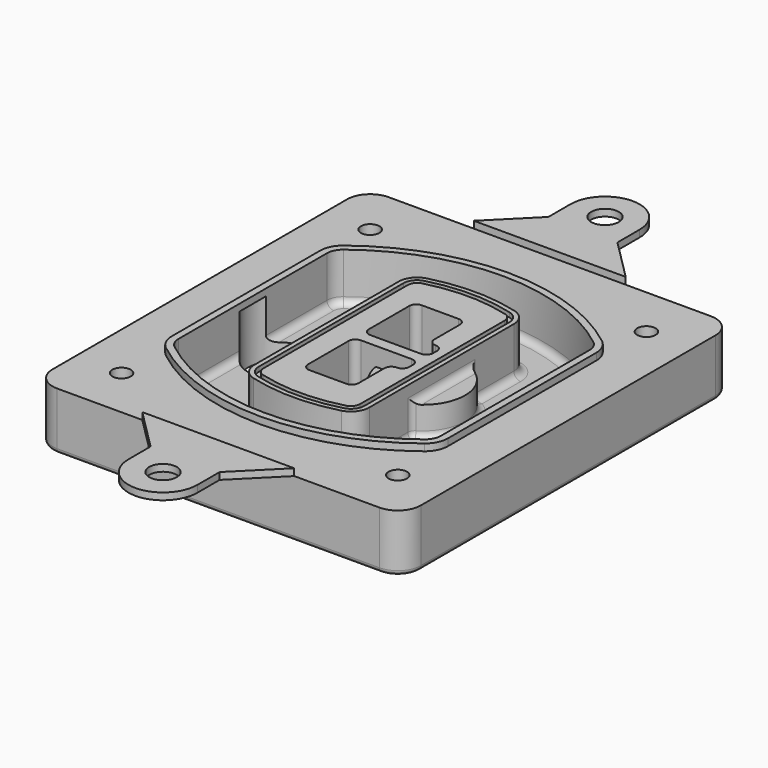
from build123d import *

# Parameters (mm, degrees)
F0_R      = 4
F1_DEPTH  = 25
F2_DEPTH  = 3
F3_DEPTH  = 18
F5_DEPTH  = 21
F6_DEPTH  = 2
F8_DEPTH  = 20
F9_DEPTH  = 16
F10_DEPTH = 25
F7_R      = 6
F7_R_2    = 4
F11_DEPTH = 6
F13_DEPTH = 9
F14_R     = 3
F15_R     = 2
F16_R     = 6
F17_DEPTH = 3


with BuildPart() as f1:
    # F0 (on Top) → F1 (new body)
    with BuildSketch(Plane.XY):
        with BuildLine():
            ThreePointArc((-80, -80), (-77.0710678119, -87.0710678119), (-70, -90))
            Line((-70, -90), (70, -90))
            ThreePointArc((70, -90), (77.0710678119, -87.0710678119), (80, -80))
            Line((80, -80), (80, 80))
            ThreePointArc((80, 80), (77.0710678119, 87.0710678119), (70, 90))
            Line((70, 90), (-70, 90))
            ThreePointArc((-70, 90), (-77.0710678119, 87.0710678119), (-80, 80))
            Line((-80, 80), (-80, -80))
        make_face()
        with Locations((-60, -67.5)):
            Circle(F0_R, mode=Mode.SUBTRACT)
        with Locations((60, -67.5)):
            Circle(F0_R, mode=Mode.SUBTRACT)
        with Locations((-60, 67.5)):
            Circle(F0_R, mode=Mode.SUBTRACT)
        with BuildLine():
            ThreePointArc((-64, 40.2934422872), (-62.5820384798, 46.4328484224), (-58.6153846154, 51.3286200352))
            ThreePointArc((-58.6153846154, 51.3286200352), (0, 71.5), (58.6153846154, 51.3286200352))
            ThreePointArc((58.6153846154, 51.3286200352), (62.5820384798, 46.4328484224), (64, 40.2934422872))
            Line((64, 40.2934422872), (64, -40.2934422872))
            ThreePointArc((64, -40.2934422872), (62.5820384798, -46.4328484224), (58.6153846154, -51.3286200352))
            ThreePointArc((58.6153846154, -51.3286200352), (0, -71.5), (-58.6153846154, -51.3286200352))
            ThreePointArc((-58.6153846154, -51.3286200352), (-62.5820384798, -46.4328484224), (-64, -40.2934422872))
            Line((-64, -40.2934422872), (-64, 40.2934422872))
        make_face(mode=Mode.SUBTRACT)
        with Locations((60, 67.5)):
            Circle(F0_R, mode=Mode.SUBTRACT)
        with BuildLine():
            ThreePointArc((58.6153846154, 51.3286200352), (0, 71.5), (-58.6153846154, 51.3286200352))
            ThreePointArc((-58.6153846154, 51.3286200352), (-62.5820384798, 46.4328484224), (-64, 40.2934422872))
            Line((-64, 40.2934422872), (-64, -40.2934422872))
            ThreePointArc((-64, -40.2934422872), (-62.5820384798, -46.4328484224), (-58.6153846154, -51.3286200352))
            ThreePointArc((-58.6153846154, -51.3286200352), (0, -71.5), (58.6153846154, -51.3286200352))
            ThreePointArc((58.6153846154, -51.3286200352), (62.5820384798, -46.4328484224), (64, -40.2934422872))
            Line((64, -40.2934422872), (64, 40.2934422872))
            ThreePointArc((64, 40.2934422872), (62.5820384798, 46.4328484224), (58.6153846154, 51.3286200352))
        make_face()
        with BuildLine():
            Line((-60, -40.2934422872), (-60, 40.2934422872))
            ThreePointArc((-60, 40.2934422872), (-58.9871703427, 44.6787323838), (-56.1538461538, 48.1757121072))
            ThreePointArc((-56.1538461538, 48.1757121072), (0, 67.5), (56.1538461538, 48.1757121072))
            ThreePointArc((56.1538461538, 48.1757121072), (58.9871703427, 44.6787323838), (60, 40.2934422872))
            Line((60, 40.2934422872), (60, -40.2934422872))
            ThreePointArc((60, -40.2934422872), (58.9871703427, -44.6787323838), (56.1538461538, -48.1757121072))
            ThreePointArc((56.1538461538, -48.1757121072), (0, -67.5), (-56.1538461538, -48.1757121072))
            ThreePointArc((-56.1538461538, -48.1757121072), (-58.9871703427, -44.6787323838), (-60, -40.2934422872))
        make_face(mode=Mode.SUBTRACT)
        with BuildLine():
            ThreePointArc((-56.1538461538, 48.1757121072), (-58.9871703427, 44.6787323838), (-60, 40.2934422872))
            Line((-60, 40.2934422872), (-60, -40.2934422872))
            ThreePointArc((-60, -40.2934422872), (-58.9871703427, -44.6787323838), (-56.1538461538, -48.1757121072))
            ThreePointArc((-56.1538461538, -48.1757121072), (0, -67.5), (56.1538461538, -48.1757121072))
            ThreePointArc((56.1538461538, -48.1757121072), (58.9871703427, -44.6787323838), (60, -40.2934422872))
            Line((60, -40.2934422872), (60, 40.2934422872))
            ThreePointArc((60, 40.2934422872), (58.9871703427, 44.6787323838), (56.1538461538, 48.1757121072))
            ThreePointArc((56.1538461538, 48.1757121072), (0, 67.5), (-56.1538461538, 48.1757121072))
        make_face()
        with BuildLine():
            ThreePointArc((54.3076923077, 45.8110311612), (56.2910192399, 43.3631453548), (57, 40.2934422872))
            Line((57, 40.2934422872), (57, -40.2934422872))
            ThreePointArc((57, -40.2934422872), (56.2910192399, -43.3631453548), (54.3076923077, -45.8110311612))
            ThreePointArc((54.3076923077, -45.8110311612), (0, -64.5), (-54.3076923077, -45.8110311612))
            ThreePointArc((-54.3076923077, -45.8110311612), (-56.2910192399, -43.3631453548), (-57, -40.2934422872))
            Line((-57, -40.2934422872), (-57, 40.2934422872))
            ThreePointArc((-57, 40.2934422872), (-56.2910192399, 43.3631453548), (-54.3076923077, 45.8110311612))
            ThreePointArc((-54.3076923077, 45.8110311612), (0, 64.5), (54.3076923077, 45.8110311612))
        make_face(mode=Mode.SUBTRACT)
        with BuildLine():
            Line((57, -40.2934422872), (57, 40.2934422872))
            ThreePointArc((57, 40.2934422872), (56.2910192399, 43.3631453548), (54.3076923077, 45.8110311612))
            ThreePointArc((54.3076923077, 45.8110311612), (0, 64.5), (-54.3076923077, 45.8110311612))
            ThreePointArc((-54.3076923077, 45.8110311612), (-56.2910192399, 43.3631453548), (-57, 40.2934422872))
            Line((-57, 40.2934422872), (-57, -40.2934422872))
            ThreePointArc((-57, -40.2934422872), (-56.2910192399, -43.3631453548), (-54.3076923077, -45.8110311612))
            ThreePointArc((-54.3076923077, -45.8110311612), (0, -64.5), (54.3076923077, -45.8110311612))
            ThreePointArc((54.3076923077, -45.8110311612), (56.2910192399, -43.3631453548), (57, -40.2934422872))
        make_face()
    extrude(amount=-F1_DEPTH)

    # F0 (on Top) → F2 (join)
    with BuildSketch(Plane.XY):
        with BuildLine():
            ThreePointArc((-56.1538461538, 48.1757121072), (-58.9871703427, 44.6787323838), (-60, 40.2934422872))
            Line((-60, 40.2934422872), (-60, -40.2934422872))
            ThreePointArc((-60, -40.2934422872), (-58.9871703427, -44.6787323838), (-56.1538461538, -48.1757121072))
            ThreePointArc((-56.1538461538, -48.1757121072), (0, -67.5), (56.1538461538, -48.1757121072))
            ThreePointArc((56.1538461538, -48.1757121072), (58.9871703427, -44.6787323838), (60, -40.2934422872))
            Line((60, -40.2934422872), (60, 40.2934422872))
            ThreePointArc((60, 40.2934422872), (58.9871703427, 44.6787323838), (56.1538461538, 48.1757121072))
            ThreePointArc((56.1538461538, 48.1757121072), (0, 67.5), (-56.1538461538, 48.1757121072))
        make_face()
        with BuildLine():
            ThreePointArc((54.3076923077, 45.8110311612), (56.2910192399, 43.3631453548), (57, 40.2934422872))
            Line((57, 40.2934422872), (57, -40.2934422872))
            ThreePointArc((57, -40.2934422872), (56.2910192399, -43.3631453548), (54.3076923077, -45.8110311612))
            ThreePointArc((54.3076923077, -45.8110311612), (0, -64.5), (-54.3076923077, -45.8110311612))
            ThreePointArc((-54.3076923077, -45.8110311612), (-56.2910192399, -43.3631453548), (-57, -40.2934422872))
            Line((-57, -40.2934422872), (-57, 40.2934422872))
            ThreePointArc((-57, 40.2934422872), (-56.2910192399, 43.3631453548), (-54.3076923077, 45.8110311612))
            ThreePointArc((-54.3076923077, 45.8110311612), (0, 64.5), (54.3076923077, 45.8110311612))
        make_face(mode=Mode.SUBTRACT)
    extrude(amount=F2_DEPTH)

    # F0 (on Top) → F3 (cut)
    with BuildSketch(Plane.XY):
        with BuildLine():
            Line((57, -40.2934422872), (57, 40.2934422872))
            ThreePointArc((57, 40.2934422872), (56.2910192399, 43.3631453548), (54.3076923077, 45.8110311612))
            ThreePointArc((54.3076923077, 45.8110311612), (0, 64.5), (-54.3076923077, 45.8110311612))
            ThreePointArc((-54.3076923077, 45.8110311612), (-56.2910192399, 43.3631453548), (-57, 40.2934422872))
            Line((-57, 40.2934422872), (-57, -40.2934422872))
            ThreePointArc((-57, -40.2934422872), (-56.2910192399, -43.3631453548), (-54.3076923077, -45.8110311612))
            ThreePointArc((-54.3076923077, -45.8110311612), (0, -64.5), (54.3076923077, -45.8110311612))
            ThreePointArc((54.3076923077, -45.8110311612), (56.2910192399, -43.3631453548), (57, -40.2934422872))
        make_face()
    extrude(amount=-F3_DEPTH, mode=Mode.SUBTRACT)

    # F4 (on face) → F5 (join, through all)
    with BuildSketch(Plane.XY.offset(3)):
        with BuildLine():
            ThreePointArc((-25, -39.2465276821), (-23.3511545998, -44.1109737193), (-19.0842911877, -46.9702398883))
            ThreePointArc((-19.0842911877, -46.9702398883), (0, -49.5), (19.0842911877, -46.9702398883))
            ThreePointArc((19.0842911877, -46.9702398883), (23.3511545998, -44.1109737193), (25, -39.2465276821))
            Line((25, -39.2465276821), (25, 39.2465276821))
            ThreePointArc((25, 39.2465276821), (23.3511545998, 44.1109737193), (19.0842911877, 46.9702398883))
            ThreePointArc((19.0842911877, 46.9702398883), (0, 49.5), (-19.0842911877, 46.9702398883))
            ThreePointArc((-19.0842911877, 46.9702398883), (-23.3511545998, 44.1109737193), (-25, 39.2465276821))
            Line((-25, 39.2465276821), (-25, -39.2465276821))
        make_face()
        with BuildLine():
            ThreePointArc((18.5632183908, 45.0393118368), (21.7633659499, 42.89486221), (23, 39.2465276821))
            Line((23, 39.2465276821), (23, -39.2465276821))
            ThreePointArc((23, -39.2465276821), (21.7633659499, -42.89486221), (18.5632183908, -45.0393118368))
            ThreePointArc((18.5632183908, -45.0393118368), (0, -47.5), (-18.5632183908, -45.0393118368))
            ThreePointArc((-18.5632183908, -45.0393118368), (-21.7633659499, -42.89486221), (-23, -39.2465276821))
            Line((-23, -39.2465276821), (-23, 39.2465276821))
            ThreePointArc((-23, 39.2465276821), (-21.7633659499, 42.89486221), (-18.5632183908, 45.0393118368))
            ThreePointArc((-18.5632183908, 45.0393118368), (0, 47.5), (18.5632183908, 45.0393118368))
        make_face(mode=Mode.SUBTRACT)
        with BuildLine():
            Line((23, -39.2465276821), (23, 39.2465276821))
            ThreePointArc((23, 39.2465276821), (21.7633659499, 42.89486221), (18.5632183908, 45.0393118368))
            ThreePointArc((18.5632183908, 45.0393118368), (0, 47.5), (-18.5632183908, 45.0393118368))
            ThreePointArc((-18.5632183908, 45.0393118368), (-21.7633659499, 42.89486221), (-23, 39.2465276821))
            Line((-23, 39.2465276821), (-23, -39.2465276821))
            ThreePointArc((-23, -39.2465276821), (-21.7633659499, -42.89486221), (-18.5632183908, -45.0393118368))
            ThreePointArc((-18.5632183908, -45.0393118368), (0, -47.5), (18.5632183908, -45.0393118368))
            ThreePointArc((18.5632183908, -45.0393118368), (21.7633659499, -42.89486221), (23, -39.2465276821))
        make_face()
        with BuildLine():
            ThreePointArc((18.0421455939, 43.1083837852), (20.1755772999, 41.6787507007), (21, 39.2465276821))
            Line((21, 39.2465276821), (21, -39.2465276821))
            ThreePointArc((21, -39.2465276821), (20.1755772999, -41.6787507007), (18.0421455939, -43.1083837852))
            ThreePointArc((18.0421455939, -43.1083837852), (0, -45.5), (-18.0421455939, -43.1083837852))
            ThreePointArc((-18.0421455939, -43.1083837852), (-20.1755772999, -41.6787507007), (-21, -39.2465276821))
            Line((-21, -39.2465276821), (-21, 39.2465276821))
            ThreePointArc((-21, 39.2465276821), (-20.1755772999, 41.6787507007), (-18.0421455939, 43.1083837852))
            ThreePointArc((-18.0421455939, 43.1083837852), (0, 45.5), (18.0421455939, 43.1083837852))
        make_face(mode=Mode.SUBTRACT)
        with BuildLine():
            Line((21, -39.2465276821), (21, 39.2465276821))
            ThreePointArc((21, 39.2465276821), (20.1755772999, 41.6787507007), (18.0421455939, 43.1083837852))
            ThreePointArc((18.0421455939, 43.1083837852), (0, 45.5), (-18.0421455939, 43.1083837852))
            ThreePointArc((-18.0421455939, 43.1083837852), (-20.1755772999, 41.6787507007), (-21, 39.2465276821))
            Line((-21, 39.2465276821), (-21, -39.2465276821))
            ThreePointArc((-21, -39.2465276821), (-20.1755772999, -41.6787507007), (-18.0421455939, -43.1083837852))
            ThreePointArc((-18.0421455939, -43.1083837852), (0, -45.5), (18.0421455939, -43.1083837852))
            ThreePointArc((18.0421455939, -43.1083837852), (20.1755772999, -41.6787507007), (21, -39.2465276821))
        make_face()
        with BuildLine():
            Line((-8, -2.5), (14, -2.5))
            ThreePointArc((14, -2.5), (16.1213203436, -3.3786796564), (17, -5.5))
            Line((17, -5.5), (17, -7.5))
            ThreePointArc((17, -7.5), (16.1213203436, -9.6213203436), (14, -10.5))
            ThreePointArc((14, -10.5), (11.8786796564, -11.3786796564), (11, -13.5))
            Line((11, -13.5), (11, -27.5))
            ThreePointArc((11, -27.5), (10.1213203436, -29.6213203436), (8, -30.5))
            Line((8, -30.5), (-8, -30.5))
            ThreePointArc((-8, -30.5), (-10.1213203436, -29.6213203436), (-11, -27.5))
            Line((-11, -27.5), (-11, -5.5))
            ThreePointArc((-11, -5.5), (-10.1213203436, -3.3786796564), (-8, -2.5))
        make_face(mode=Mode.SUBTRACT)
        with BuildLine():
            ThreePointArc((-8, 2.5), (-10.1213203436, 3.3786796564), (-11, 5.5))
            Line((-11, 5.5), (-11, 27.5))
            ThreePointArc((-11, 27.5), (-10.1213203436, 29.6213203436), (-8, 30.5))
            Line((-8, 30.5), (8, 30.5))
            ThreePointArc((8, 30.5), (10.1213203436, 29.6213203436), (11, 27.5))
            Line((11, 27.5), (11, 13.5))
            ThreePointArc((11, 13.5), (11.8786796564, 11.3786796564), (14, 10.5))
            ThreePointArc((14, 10.5), (16.1213203436, 9.6213203436), (17, 7.5))
            Line((17, 7.5), (17, 5.5))
            ThreePointArc((17, 5.5), (16.1213203436, 3.3786796564), (14, 2.5))
            Line((14, 2.5), (-8, 2.5))
        make_face(mode=Mode.SUBTRACT)
    extrude(amount=-F5_DEPTH)

    # F4 (on face) → F6 (cut)
    with BuildSketch(Plane.XY.offset(3)):
        with BuildLine():
            Line((23, -39.2465276821), (23, 39.2465276821))
            ThreePointArc((23, 39.2465276821), (21.7633659499, 42.89486221), (18.5632183908, 45.0393118368))
            ThreePointArc((18.5632183908, 45.0393118368), (0, 47.5), (-18.5632183908, 45.0393118368))
            ThreePointArc((-18.5632183908, 45.0393118368), (-21.7633659499, 42.89486221), (-23, 39.2465276821))
            Line((-23, 39.2465276821), (-23, -39.2465276821))
            ThreePointArc((-23, -39.2465276821), (-21.7633659499, -42.89486221), (-18.5632183908, -45.0393118368))
            ThreePointArc((-18.5632183908, -45.0393118368), (0, -47.5), (18.5632183908, -45.0393118368))
            ThreePointArc((18.5632183908, -45.0393118368), (21.7633659499, -42.89486221), (23, -39.2465276821))
        make_face()
        with BuildLine():
            ThreePointArc((18.0421455939, 43.1083837852), (20.1755772999, 41.6787507007), (21, 39.2465276821))
            Line((21, 39.2465276821), (21, -39.2465276821))
            ThreePointArc((21, -39.2465276821), (20.1755772999, -41.6787507007), (18.0421455939, -43.1083837852))
            ThreePointArc((18.0421455939, -43.1083837852), (0, -45.5), (-18.0421455939, -43.1083837852))
            ThreePointArc((-18.0421455939, -43.1083837852), (-20.1755772999, -41.6787507007), (-21, -39.2465276821))
            Line((-21, -39.2465276821), (-21, 39.2465276821))
            ThreePointArc((-21, 39.2465276821), (-20.1755772999, 41.6787507007), (-18.0421455939, 43.1083837852))
            ThreePointArc((-18.0421455939, 43.1083837852), (0, 45.5), (18.0421455939, 43.1083837852))
        make_face(mode=Mode.SUBTRACT)
    extrude(amount=-F6_DEPTH, mode=Mode.SUBTRACT)

    # F7 (on face) → F8 (join)
    with BuildSketch(Plane(origin=(0, 0, -25), x_dir=(1, 0, 0), z_dir=(0, 0, -1))):
        with BuildLine():
            ThreePointArc((3.28842436, 0), (16.7567035675, 13.4682792075), (30.224982775, 0))
            Line((30.224982775, 0), (35.224982775, 0))
            ThreePointArc((35.224982775, 0), (16.7567035675, 18.4682792075), (-1.71157564, 0))
            Line((-1.71157564, 0), (3.28842436, 0))
        make_face()
        with BuildLine():
            Line((3.28842436, 0), (30.224982775, 0))
            ThreePointArc((30.224982775, 0), (16.7567035675, 13.4682792075), (3.28842436, 0))
        make_face()
        with BuildLine():
            ThreePointArc((3.28842436, 0), (16.7567035675, -13.4682792075), (30.224982775, 0))
            Line((30.224982775, 0), (3.28842436, 0))
        make_face()
        with BuildLine():
            Line((35.224982775, 0), (30.224982775, 0))
            ThreePointArc((30.224982775, 0), (16.7567035675, -13.4682792075), (3.28842436, 0))
            Line((3.28842436, 0), (-1.71157564, 0))
            ThreePointArc((-1.71157564, 0), (16.7567035675, -18.4682792075), (35.224982775, 0))
        make_face()
    extrude(amount=-F8_DEPTH)

    # F7 (on face) → F9 (cut)
    with BuildSketch(Plane(origin=(0, 0, -25), x_dir=(1, 0, 0), z_dir=(0, 0, -1))):
        with BuildLine():
            Line((3.28842436, 0), (30.224982775, 0))
            ThreePointArc((30.224982775, 0), (16.7567035675, 13.4682792075), (3.28842436, 0))
        make_face()
        with BuildLine():
            ThreePointArc((3.28842436, 0), (16.7567035675, -13.4682792075), (30.224982775, 0))
            Line((30.224982775, 0), (3.28842436, 0))
        make_face()
    extrude(amount=-F9_DEPTH, mode=Mode.SUBTRACT)

    # F7 (on face) → F10 (cut)
    with BuildSketch(Plane(origin=(0, 0, -25), x_dir=(1, 0, 0), z_dir=(0, 0, -1))):
        with BuildLine():
            Line((-59.0318229325, 0), (-32.0952645175, 0))
            ThreePointArc((-32.0952645175, 0), (-45.563543725, 13.4682792075), (-59.0318229325, 0))
        make_face()
        with BuildLine():
            ThreePointArc((-59.0318229325, 0), (-45.563543725, -13.4682792075), (-32.0952645175, 0))
            Line((-32.0952645175, 0), (-59.0318229325, 0))
        make_face()
    extrude(amount=-F10_DEPTH, mode=Mode.SUBTRACT)

    # F7 (on face) → F11 (cut)
    with BuildSketch(Plane(origin=(0, 0, -25), x_dir=(1, 0, 0), z_dir=(0, 0, -1))):
        with Locations((60, -67.5)):
            Circle(F7_R)
        with Locations((60, -67.5)):
            Circle(F7_R_2, mode=Mode.SUBTRACT)
        with Locations((60, -67.5)):
            Circle(F7_R)
        with Locations((60, -67.5)):
            Circle(F7_R_2, mode=Mode.SUBTRACT)
        with Locations((-60, -67.5)):
            Circle(F7_R)
        with Locations((-60, -67.5)):
            Circle(F7_R_2, mode=Mode.SUBTRACT)
        with Locations((-60, -67.5)):
            Circle(F7_R)
        with Locations((-60, -67.5)):
            Circle(F7_R_2, mode=Mode.SUBTRACT)
        with Locations((-60, 67.5)):
            Circle(F7_R)
        with Locations((-60, 67.5)):
            Circle(F7_R_2, mode=Mode.SUBTRACT)
        with Locations((-60, 67.5)):
            Circle(F7_R)
        with Locations((-60, 67.5)):
            Circle(F7_R_2, mode=Mode.SUBTRACT)
        with Locations((60, 67.5)):
            Circle(F7_R)
        with Locations((60, 67.5)):
            Circle(F7_R_2, mode=Mode.SUBTRACT)
        with Locations((60, 67.5)):
            Circle(F7_R)
        with Locations((60, 67.5)):
            Circle(F7_R_2, mode=Mode.SUBTRACT)
    extrude(amount=-F11_DEPTH, mode=Mode.SUBTRACT)

    # F12 (on face) → F13 (cut, through all)
    with BuildSketch(Plane(origin=(0, 0, -9), x_dir=(1, 0, 0), z_dir=(0, 0, -1))):
        with BuildLine():
            Line((11, 13.5), (11, 17.5481537753))
            ThreePointArc((11, 17.5481537753), (2.5696536419, 11.8239143813), (-1.5415842455, 2.5))
            Line((-1.5415842455, 2.5), (3.5224848595, 2.5))
            ThreePointArc((3.5224848595, 2.5), (6.1857188154, 8.3455872281), (11.2536447004, 12.2927168648))
            ThreePointArc((11.2536447004, 12.2927168648), (11.0640958889, 12.8831798879), (11, 13.5))
        make_face()
        with BuildLine():
            ThreePointArc((11.2536447004, -12.2927168648), (6.1857188154, -8.3455872281), (3.5224848595, -2.5))
            Line((3.5224848595, -2.5), (-1.5415842455, -2.5))
            ThreePointArc((-1.5415842455, -2.5), (2.5696536419, -11.8239143813), (11, -17.5481537753))
            Line((11, -17.5481537753), (11, -13.5))
            ThreePointArc((11, -13.5), (11.0640958889, -12.8831798879), (11.2536447004, -12.2927168648))
        make_face()
        with BuildLine():
            ThreePointArc((11.2536447004, 12.2927168648), (6.1857188154, 8.3455872281), (3.5224848595, 2.5))
            Line((3.5224848595, 2.5), (14, 2.5))
            ThreePointArc((14, 2.5), (16.1213203436, 3.3786796564), (17, 5.5))
            Line((17, 5.5), (17, 7.5))
            ThreePointArc((17, 7.5), (16.1213203436, 9.6213203436), (14, 10.5))
            ThreePointArc((14, 10.5), (12.3601599782, 10.9878446101), (11.2536447004, 12.2927168648))
        make_face()
        with BuildLine():
            Line((14, -2.5), (3.5224848595, -2.5))
            ThreePointArc((3.5224848595, -2.5), (6.1857188154, -8.3455872281), (11.2536447004, -12.2927168648))
            ThreePointArc((11.2536447004, -12.2927168648), (12.3601599782, -10.9878446101), (14, -10.5))
            ThreePointArc((14, -10.5), (16.1213203436, -9.6213203436), (17, -7.5))
            Line((17, -7.5), (17, -5.5))
            ThreePointArc((17, -5.5), (16.1213203436, -3.3786796564), (14, -2.5))
        make_face()
    extrude(amount=F13_DEPTH, mode=Mode.SUBTRACT)

    # F14
    f14_edges = [f1.edges().sort_by_distance(p)[0] for p in [
        (-57, -23.703476, -18),
        (-57, 23.703476, -18),
        (25, 0, -5),
        (25, 16.526506, -11.5),
        (25, -16.526506, -11.5),
        (25, -27.886517, -18),
        (35.224983, 0, -18),
    ]]
    fillet(f14_edges, radius=F14_R)

    # F15
    f15_edges = [f1.edges().sort_by_distance(p)[0] for p in [
        (0, -90, -25),
    ]]
    fillet(f15_edges, radius=F15_R)


with BuildPart() as f17:
    # F16 (on Top) → F17 (new body, through all)
    with BuildSketch(Plane.XY):
        with BuildLine():
            Line((-15, 108), (-33, 90))
            Line((-33, 90), (33, 90))
            Line((33, 90), (15, 108))
            Line((15, 108), (15, 120))
            ThreePointArc((15, 120), (0, 135), (-15, 120))
            Line((-15, 120), (-15, 108))
        make_face()
        with Locations((0, 120)):
            Circle(F16_R, mode=Mode.SUBTRACT)
    extrude(amount=F17_DEPTH)


with BuildPart() as f17b:
    # F16 (on Top) → F17, piece 2 (new body, through all)
    with BuildSketch(Plane.XY):
        with BuildLine():
            Line((33, -90), (-33, -90))
            Line((-33, -90), (-15, -108))
            Line((-15, -108), (-15, -120))
            ThreePointArc((-15, -120), (0, -135), (15, -120))
            Line((15, -120), (15, -108))
            Line((15, -108), (33, -90))
        make_face()
        with Locations((0, -120)):
            Circle(F16_R, mode=Mode.SUBTRACT)
    extrude(amount=F17_DEPTH)


solid = Compound([f1.part, f17.part, f17b.part])
